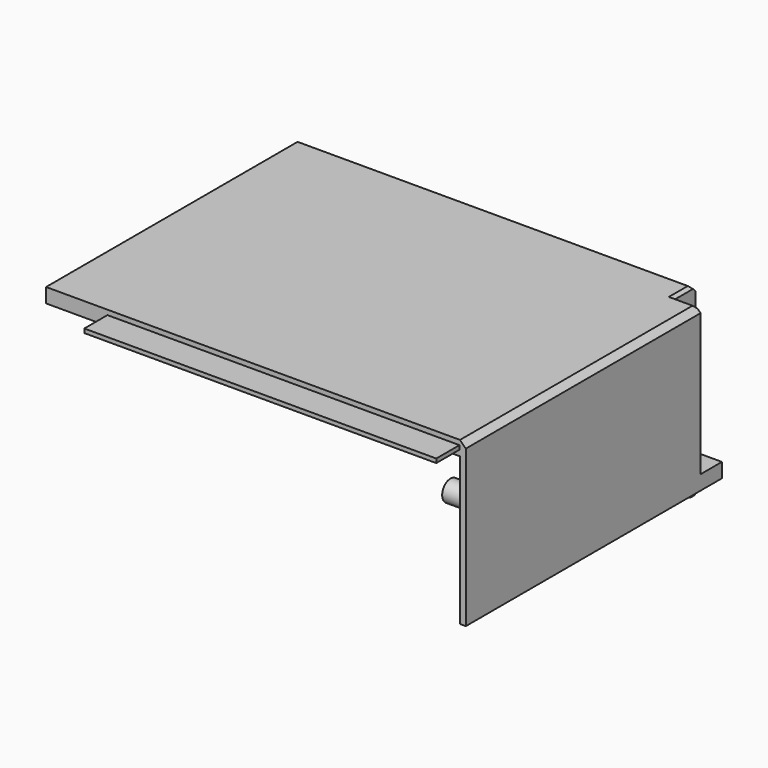
from build123d import *

# Parameters (mm, degrees)
SKETCH_1_W      = 140
SKETCH_1_H      = 93
PAD_DEPTH       = 5
SKETCH_W        = 140
SKETCH_H        = 7.4
PAD001_DEPTH    = 5
PAD005_DEPTH    = 5
SKETCH002_W     = 9.2
SKETCH002_H     = 9.2
POCKET_DEPTH    = 5
SKETCH004_W     = 2
SKETCH004_H     = 101.4
PAD004_DEPTH    = 51
SKETCH010_W     = 87.7
SKETCH010_H     = 2.08
POCKET003_DEPTH = 11
SKETCH012_W     = 135.8
SKETCH012_H     = 2
PAD006_DEPTH    = 51
PAD007_DEPTH    = 53
SKETCH014_W     = 9.2
SKETCH014_H     = 5
PAD008_DEPTH    = 9.2
SKETCH015_R     = 1.6
POCKET004_DEPTH = 5
SKETCH016_W     = 121.6
SKETCH016_H     = 1.4
PAD009_DEPTH    = 10
CHAMFER_SIZE    = 2
CHAMFER001_SIZE = 0.99
SKETCH017_R     = 3.6
PAD010_DEPTH    = 10
PAD011_DEPTH    = 5
FILLET_R        = 3
SKETCH019_R     = 2
POCKET005_DEPTH = 6.7
PAD012_DEPTH    = 51


with BuildPart() as part:
    # Sketch_1 → Pad (new body)
    with BuildSketch(Plane.XY):
        with Locations((-70, 46.5)):
            Rectangle(SKETCH_1_W, SKETCH_1_H)
    extrude(amount=PAD_DEPTH)

    # Sketch → Pad001 (join)
    with BuildSketch(Plane.XY):
        with Locations((-70, -3.7)):
            Rectangle(SKETCH_W, SKETCH_H)
    extrude(amount=PAD001_DEPTH)

    # Sketch011 (on Face5 of Pad001) → Pad005 (join)
    with BuildSketch(Plane.XY.offset(5)):
        Polygon((-140, 93), (-140, 103.2), (5, 103.2), (5, -7.4), (0, -7.4), (0, 93), align=None)
    extrude(amount=-PAD005_DEPTH)

    # Sketch002 → Pocket (cut)
    with BuildSketch(Plane.XY.offset(5)):
        with Locations((0.4, 98.6)):
            Rectangle(SKETCH002_W, SKETCH002_H)
    extrude(amount=-POCKET_DEPTH, mode=Mode.SUBTRACT)

    # Sketch004 → Pad004 (join)
    with BuildSketch(Plane(origin=(0, 0, 0), x_dir=(1, 0, 0), z_dir=(0, 0, -1))):
        with Locations((4, -43.3)):
            Rectangle(SKETCH004_W, SKETCH004_H)
    extrude(amount=PAD004_DEPTH)

    # Sketch010 → Pocket003 (cut)
    with BuildSketch(Plane(origin=(-140, 0, 0), x_dir=(0, -1, 0), z_dir=(-1, 0, 0))):
        with Locations((-57.4, 2.54)):
            Rectangle(SKETCH010_W, SKETCH010_H)
    extrude(amount=-POCKET003_DEPTH, mode=Mode.SUBTRACT)

    # Sketch012 (on Face10 of Pocket003) → Pad006 (join)
    with BuildSketch(Plane(origin=(0, 0, 0), x_dir=(1, 0, 0), z_dir=(0, 0, -1))):
        with Locations((-72.1, -102.2)):
            Rectangle(SKETCH012_W, SKETCH012_H)
    extrude(amount=PAD006_DEPTH)

    # Sketch013 (on Face10 of Pad006) → Pad007 (join)
    with BuildSketch(Plane(origin=(0, 0, 0), x_dir=(1, 0, 0), z_dir=(0, 0, -1))):
        Polygon((-4.2, -101.2), (-6.2, -101.2), (-6.2, -92), (3, -92), (3, -94), (-4.2, -94), align=None)
    extrude(amount=PAD007_DEPTH)

    # Sketch014 (on Face33 of Pad007) → Pad008 (join)
    with BuildSketch(Plane(origin=(0, 94, 0), x_dir=(-1, 0, 0), z_dir=(0, 1, 0))):
        with Locations((-0.4, -48.5)):
            Rectangle(SKETCH014_W, SKETCH014_H)
    extrude(amount=PAD008_DEPTH)

    # Sketch015 (on Face43 of Pad008) → Pocket004 (cut)
    with BuildSketch(Plane.XY.offset(-46)):
        with Locations((-0.6, 97.6)):
            Circle(SKETCH015_R)
    extrude(amount=-POCKET004_DEPTH, mode=Mode.SUBTRACT)

    # Sketch016 (on Face20 of Pocket004) → Pad009 (join)
    with BuildSketch(Plane.XZ.offset(7.4)):
        with Locations((-58, 2.64)):
            Rectangle(SKETCH016_W, SKETCH016_H)
    extrude(amount=PAD009_DEPTH)

    # Chamfer
    chamfer_edges = [part.edges().sort_by_distance(p)[0] for p in [
        (5, 43.3, 5),
        (-72.1, 103.2, 5),
    ]]
    chamfer(chamfer_edges, length=CHAMFER_SIZE)

    # Chamfer001
    chamfer001_edges = [part.edges().sort_by_distance(p)[0] for p in [
        (-4.2, 97.6, 5),
        (-0.6, 94, 5),
    ]]
    chamfer(chamfer001_edges, length=CHAMFER001_SIZE)

    # Sketch017 (on Face42 of Chamfer001) → Pad010 (join)
    with BuildSketch(Plane(origin=(3, 0, 0), x_dir=(0, -1, 0), z_dir=(-1, 0, 0))):
        with Locations((-88, -17)):
            Circle(SKETCH017_R)
        with Locations((-1, -17)):
            Circle(SKETCH017_R)
    extrude(amount=PAD010_DEPTH)

    # Sketch018 (on Face42 of Pad010) → Pad011 (join)
    with BuildSketch(Plane(origin=(3, 0, 0), x_dir=(0, -1, 0), z_dir=(-1, 0, 0))):
        with BuildLine():
            Line((-85.006674, -15), (-3.993326, -15))
            ThreePointArc((-3.993326, -15), (-4.6, -17), (-3.993326, -19))
            Line((-85.006674, -19), (-3.993326, -19))
            ThreePointArc((-85.006674, -19), (-84.4, -17), (-85.006674, -15))
        make_face()
    extrude(amount=PAD011_DEPTH)

    # Fillet
    fillet_edges = [part.edges().sort_by_distance(p)[0] for p in [
        (3, 44.5, -19),
        (3, 91.6, -17),
        (3, -0.044994, -20.444994),
        (3, 44.5, -15),
        (3, -0.044994, -13.555006),
    ]]
    fillet(fillet_edges, radius=FILLET_R)

    # Sketch019 (on Face32 of Fillet) → Pocket005 (cut)
    with BuildSketch(Plane(origin=(-7, 0, 0), x_dir=(0, -1, 0), z_dir=(-1, 0, 0))):
        with Locations((-88, -17)):
            Circle(SKETCH019_R)
        with Locations((-1, -17)):
            Circle(SKETCH019_R)
    extrude(amount=-POCKET005_DEPTH, mode=Mode.SUBTRACT)

    # Sketch020 (on Face26 of Pocket005) → Pad012 (join)
    with BuildSketch(Plane(origin=(0, 0, 0), x_dir=(1, 0, 0), z_dir=(0, 0, -1))):
        Polygon((-140, -101.2), (-142, -101.2), (-142, -100.2), (-138.5, -100.2), (-137.5, -101.2), (-138.5, -101.2), align=None)
    extrude(amount=PAD012_DEPTH)


solid = part.part
